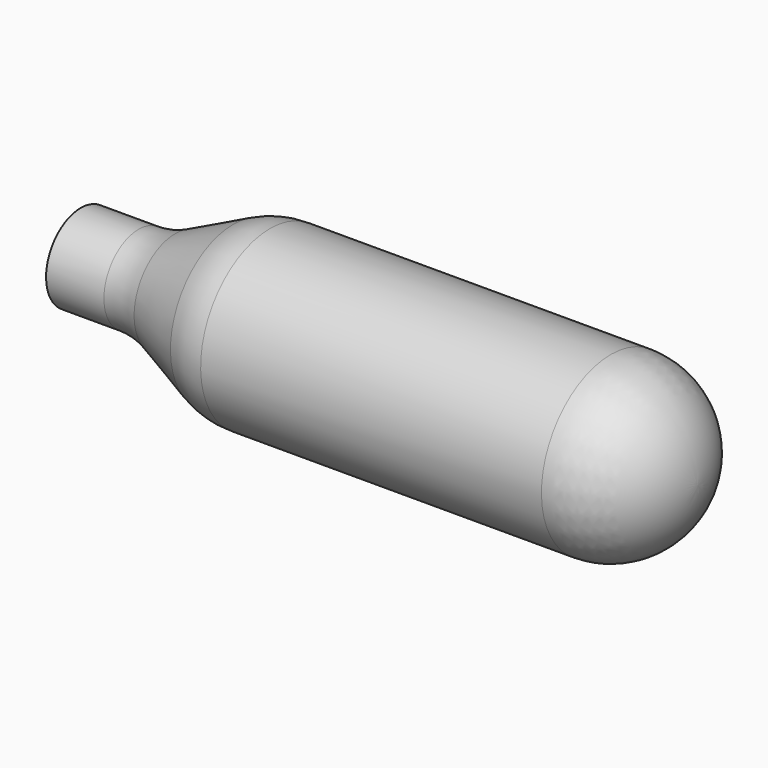
from build123d import *


with BuildPart() as f1:
    # F0 (on Front) → F1 (revolve)
    with BuildSketch(Plane.XZ):
        with BuildLine():
            Line((0, 4.5), (0, 0))
            Line((0, 0), (64, 0))
            ThreePointArc((64, 0), (61.363961, 6.363961), (55, 9))
            Line((55, 9), (19.639476, 9))
            ThreePointArc((19.639476, 9), (17.690218, 8.786376), (15.833496, 8.155644))
            Line((15.833496, 8.155644), (9.809329, 5.344356))
            ThreePointArc((9.809329, 5.344356), (7.952607, 4.713624), (6.00335, 4.5))
            Line((6.00335, 4.5), (0, 4.5))
        make_face()
    revolve(axis=Axis((32, 0, 0), (-1, 0, 0)))


solid = f1.part
